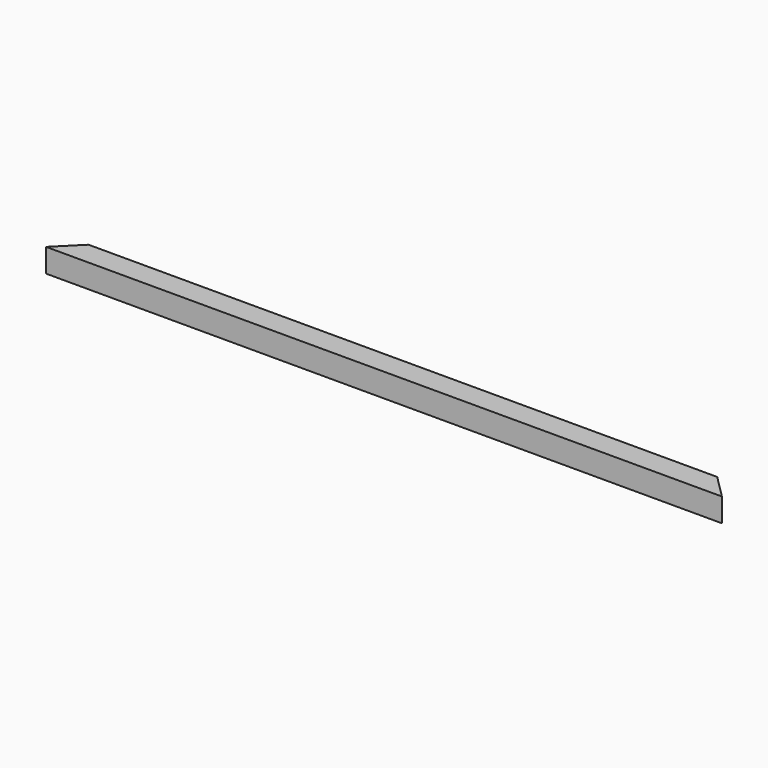
from build123d import *

# Parameters (mm, degrees)
F1_DEPTH      = 38.1
F2_W          = 34.798
F2_H          = 34.798
F3_DEPTH      = 546.101
F3_DEPTH_BACK = 546.101


with BuildPart() as f1:
    # F0 (on Top) → F1 (new body)
    with BuildSketch(Plane.XY):
        Polygon((508, 0), (0, 0), (-508, 0), (-546.1, -38.1), (0, -38.1), (546.1, -38.1), align=None)
    extrude(amount=F1_DEPTH)

    # F2 (on Right) → F3 (cut, two sides)
    with BuildSketch(Plane.YZ) as f3_sk:
        with Locations((-19.05, 19.05)):
            Rectangle(F2_W, F2_H)
    extrude(amount=-F3_DEPTH, mode=Mode.SUBTRACT)
    extrude(f3_sk.sketch, amount=F3_DEPTH_BACK, mode=Mode.SUBTRACT)


solid = f1.part
